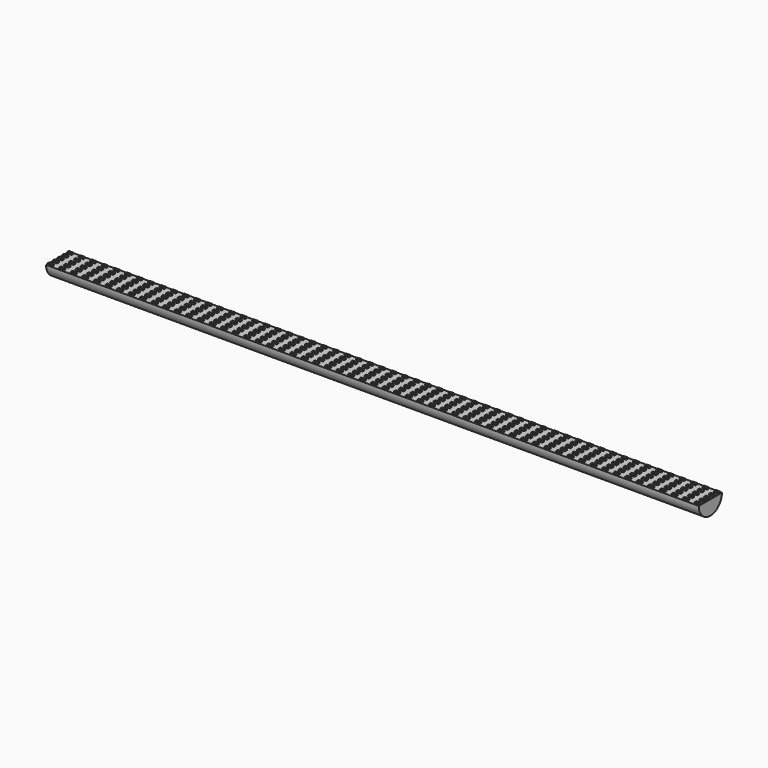
from build123d import *

# Parameters (mm, degrees)
F1_DEPTH = 282.5
F2_W     = 4
F2_H     = 2
F3_DEPTH = 1


with BuildPart() as f1:
    # F0 (on Right) → F1 (new body, symmetric)
    with BuildSketch(Plane.YZ):
        with BuildLine():
            Line((12.55, 0), (-12.55, 0))
            ThreePointArc((-12.55, 0), (0, -12.55), (12.55, 0))
        make_face()
    extrude(amount=F1_DEPTH, both=True)

    # F2 (on face) → F3 (join)
    with BuildSketch(Plane.XY):
        with Locations((-280, 10.55)):
            Rectangle(F2_W, F2_H)
        with Locations((-280, 5.275)):
            Rectangle(F2_W, F2_H)
        with Locations((-280, 0)):
            Rectangle(F2_W, F2_H)
        with Locations((-280, -5.275)):
            Rectangle(F2_W, F2_H)
        with Locations((-280, -10.55)):
            Rectangle(F2_W, F2_H)
        with Locations((-270, -10.55)):
            Rectangle(F2_W, F2_H)
        with Locations((-270, 0)):
            Rectangle(F2_W, F2_H)
        with Locations((-270, 5.275)):
            Rectangle(F2_W, F2_H)
        with Locations((-270, 10.55)):
            Rectangle(F2_W, F2_H)
        with Locations((-270, -5.275)):
            Rectangle(F2_W, F2_H)
        with Locations((-260, -10.55)):
            Rectangle(F2_W, F2_H)
        with Locations((-260, 0)):
            Rectangle(F2_W, F2_H)
        with Locations((-260, 5.275)):
            Rectangle(F2_W, F2_H)
        with Locations((-260, 10.55)):
            Rectangle(F2_W, F2_H)
        with Locations((-260, -5.275)):
            Rectangle(F2_W, F2_H)
        with Locations((-250, -10.55)):
            Rectangle(F2_W, F2_H)
        with Locations((-250, 0)):
            Rectangle(F2_W, F2_H)
        with Locations((-250, 5.275)):
            Rectangle(F2_W, F2_H)
        with Locations((-250, 10.55)):
            Rectangle(F2_W, F2_H)
        with Locations((-250, -5.275)):
            Rectangle(F2_W, F2_H)
        with Locations((-240, -10.55)):
            Rectangle(F2_W, F2_H)
        with Locations((-240, 0)):
            Rectangle(F2_W, F2_H)
        with Locations((-240, 5.275)):
            Rectangle(F2_W, F2_H)
        with Locations((-240, 10.55)):
            Rectangle(F2_W, F2_H)
        with Locations((-240, -5.275)):
            Rectangle(F2_W, F2_H)
        with Locations((-230, -10.55)):
            Rectangle(F2_W, F2_H)
        with Locations((-230, 0)):
            Rectangle(F2_W, F2_H)
        with Locations((-230, 5.275)):
            Rectangle(F2_W, F2_H)
        with Locations((-230, 10.55)):
            Rectangle(F2_W, F2_H)
        with Locations((-230, -5.275)):
            Rectangle(F2_W, F2_H)
        with Locations((-220, -10.55)):
            Rectangle(F2_W, F2_H)
        with Locations((-220, 0)):
            Rectangle(F2_W, F2_H)
        with Locations((-220, 5.275)):
            Rectangle(F2_W, F2_H)
        with Locations((-220, 10.55)):
            Rectangle(F2_W, F2_H)
        with Locations((-220, -5.275)):
            Rectangle(F2_W, F2_H)
        with Locations((-210, -10.55)):
            Rectangle(F2_W, F2_H)
        with Locations((-210, 0)):
            Rectangle(F2_W, F2_H)
        with Locations((-210, 5.275)):
            Rectangle(F2_W, F2_H)
        with Locations((-210, 10.55)):
            Rectangle(F2_W, F2_H)
        with Locations((-210, -5.275)):
            Rectangle(F2_W, F2_H)
        with Locations((-200, -10.55)):
            Rectangle(F2_W, F2_H)
        with Locations((-200, 0)):
            Rectangle(F2_W, F2_H)
        with Locations((-200, 5.275)):
            Rectangle(F2_W, F2_H)
        with Locations((-200, 10.55)):
            Rectangle(F2_W, F2_H)
        with Locations((-200, -5.275)):
            Rectangle(F2_W, F2_H)
        with Locations((-190, -10.55)):
            Rectangle(F2_W, F2_H)
        with Locations((-190, 0)):
            Rectangle(F2_W, F2_H)
        with Locations((-190, 5.275)):
            Rectangle(F2_W, F2_H)
        with Locations((-190, 10.55)):
            Rectangle(F2_W, F2_H)
        with Locations((-190, -5.275)):
            Rectangle(F2_W, F2_H)
        with Locations((-170, -10.55)):
            Rectangle(F2_W, F2_H)
        with Locations((-100, 10.55)):
            Rectangle(F2_W, F2_H)
        with Locations((-110, 0)):
            Rectangle(F2_W, F2_H)
        with Locations((-130, 10.55)):
            Rectangle(F2_W, F2_H)
        with Locations((-160, 10.55)):
            Rectangle(F2_W, F2_H)
        with Locations((-100, -10.55)):
            Rectangle(F2_W, F2_H)
        with Locations((-90, 5.275)):
            Rectangle(F2_W, F2_H)
        with Locations((-130, -10.55)):
            Rectangle(F2_W, F2_H)
        with Locations((-130, 0)):
            Rectangle(F2_W, F2_H)
        with Locations((-160, 0)):
            Rectangle(F2_W, F2_H)
        with Locations((-120, -10.55)):
            Rectangle(F2_W, F2_H)
        with Locations((-90, -10.55)):
            Rectangle(F2_W, F2_H)
        with Locations((-150, -10.55)):
            Rectangle(F2_W, F2_H)
        with Locations((-110, 10.55)):
            Rectangle(F2_W, F2_H)
        with Locations((-170, 5.275)):
            Rectangle(F2_W, F2_H)
        with Locations((-180, 10.55)):
            Rectangle(F2_W, F2_H)
        with Locations((-180, 5.275)):
            Rectangle(F2_W, F2_H)
        with Locations((-160, 5.275)):
            Rectangle(F2_W, F2_H)
        with Locations((-170, 10.55)):
            Rectangle(F2_W, F2_H)
        with Locations((-140, -5.275)):
            Rectangle(F2_W, F2_H)
        with Locations((-140, -10.55)):
            Rectangle(F2_W, F2_H)
        with Locations((-150, 0)):
            Rectangle(F2_W, F2_H)
        with Locations((-110, -5.275)):
            Rectangle(F2_W, F2_H)
        with Locations((-170, -5.275)):
            Rectangle(F2_W, F2_H)
        with Locations((-120, 5.275)):
            Rectangle(F2_W, F2_H)
        with Locations((-140, 0)):
            Rectangle(F2_W, F2_H)
        with Locations((-150, 5.275)):
            Rectangle(F2_W, F2_H)
        with Locations((-110, -10.55)):
            Rectangle(F2_W, F2_H)
        with Locations((-100, -5.275)):
            Rectangle(F2_W, F2_H)
        with Locations((-130, -5.275)):
            Rectangle(F2_W, F2_H)
        with Locations((-160, -5.275)):
            Rectangle(F2_W, F2_H)
        with Locations((-160, -10.55)):
            Rectangle(F2_W, F2_H)
        with Locations((-90, 10.55)):
            Rectangle(F2_W, F2_H)
        with Locations((-120, 10.55)):
            Rectangle(F2_W, F2_H)
        with Locations((-140, 5.275)):
            Rectangle(F2_W, F2_H)
        with Locations((-150, 10.55)):
            Rectangle(F2_W, F2_H)
        with Locations((-90, -5.275)):
            Rectangle(F2_W, F2_H)
        with Locations((-110, 5.275)):
            Rectangle(F2_W, F2_H)
        with Locations((-100, 0)):
            Rectangle(F2_W, F2_H)
        with Locations((-120, -5.275)):
            Rectangle(F2_W, F2_H)
        with Locations((-150, -5.275)):
            Rectangle(F2_W, F2_H)
        with Locations((-180, -5.275)):
            Rectangle(F2_W, F2_H)
        with Locations((-140, 10.55)):
            Rectangle(F2_W, F2_H)
        with Locations((-180, -10.55)):
            Rectangle(F2_W, F2_H)
        with Locations((-180, 0)):
            Rectangle(F2_W, F2_H)
        with Locations((-120, 0)):
            Rectangle(F2_W, F2_H)
        with Locations((-170, 0)):
            Rectangle(F2_W, F2_H)
        with Locations((-100, 5.275)):
            Rectangle(F2_W, F2_H)
        with Locations((-90, 0)):
            Rectangle(F2_W, F2_H)
        with Locations((-130, 5.275)):
            Rectangle(F2_W, F2_H)
        with Locations((-70, -10.55)):
            Rectangle(F2_W, F2_H)
        with Locations((0, 10.55)):
            Rectangle(F2_W, F2_H)
        with Locations((-10, 0)):
            Rectangle(F2_W, F2_H)
        with Locations((-30, 10.55)):
            Rectangle(F2_W, F2_H)
        with Locations((-60, 10.55)):
            Rectangle(F2_W, F2_H)
        with Locations((0, -10.55)):
            Rectangle(F2_W, F2_H)
        with Locations((10, 5.275)):
            Rectangle(F2_W, F2_H)
        with Locations((-30, -10.55)):
            Rectangle(F2_W, F2_H)
        with Locations((-30, 0)):
            Rectangle(F2_W, F2_H)
        with Locations((-60, 0)):
            Rectangle(F2_W, F2_H)
        with Locations((-20, -10.55)):
            Rectangle(F2_W, F2_H)
        with Locations((10, -10.55)):
            Rectangle(F2_W, F2_H)
        with Locations((-50, -10.55)):
            Rectangle(F2_W, F2_H)
        with Locations((-10, 10.55)):
            Rectangle(F2_W, F2_H)
        with Locations((-70, 5.275)):
            Rectangle(F2_W, F2_H)
        with Locations((-80, 10.55)):
            Rectangle(F2_W, F2_H)
        with Locations((-80, 5.275)):
            Rectangle(F2_W, F2_H)
        with Locations((-60, 5.275)):
            Rectangle(F2_W, F2_H)
        with Locations((-70, 10.55)):
            Rectangle(F2_W, F2_H)
        with Locations((-40, -5.275)):
            Rectangle(F2_W, F2_H)
        with Locations((-40, -10.55)):
            Rectangle(F2_W, F2_H)
        with Locations((-50, 0)):
            Rectangle(F2_W, F2_H)
        with Locations((-10, -5.275)):
            Rectangle(F2_W, F2_H)
        with Locations((-70, -5.275)):
            Rectangle(F2_W, F2_H)
        with Locations((-20, 5.275)):
            Rectangle(F2_W, F2_H)
        with Locations((-40, 0)):
            Rectangle(F2_W, F2_H)
        with Locations((-50, 5.275)):
            Rectangle(F2_W, F2_H)
        with Locations((-10, -10.55)):
            Rectangle(F2_W, F2_H)
        with Locations((0, -5.275)):
            Rectangle(F2_W, F2_H)
        with Locations((-30, -5.275)):
            Rectangle(F2_W, F2_H)
        with Locations((-60, -5.275)):
            Rectangle(F2_W, F2_H)
        with Locations((-60, -10.55)):
            Rectangle(F2_W, F2_H)
        with Locations((10, 10.55)):
            Rectangle(F2_W, F2_H)
        with Locations((-20, 10.55)):
            Rectangle(F2_W, F2_H)
        with Locations((-40, 5.275)):
            Rectangle(F2_W, F2_H)
        with Locations((-50, 10.55)):
            Rectangle(F2_W, F2_H)
        with Locations((10, -5.275)):
            Rectangle(F2_W, F2_H)
        with Locations((-10, 5.275)):
            Rectangle(F2_W, F2_H)
        Rectangle(F2_W, F2_H)
        with Locations((-20, -5.275)):
            Rectangle(F2_W, F2_H)
        with Locations((-50, -5.275)):
            Rectangle(F2_W, F2_H)
        with Locations((-80, -5.275)):
            Rectangle(F2_W, F2_H)
        with Locations((-40, 10.55)):
            Rectangle(F2_W, F2_H)
        with Locations((-80, -10.55)):
            Rectangle(F2_W, F2_H)
        with Locations((-80, 0)):
            Rectangle(F2_W, F2_H)
        with Locations((-20, 0)):
            Rectangle(F2_W, F2_H)
        with Locations((-70, 0)):
            Rectangle(F2_W, F2_H)
        with Locations((0, 5.275)):
            Rectangle(F2_W, F2_H)
        with Locations((10, 0)):
            Rectangle(F2_W, F2_H)
        with Locations((-30, 5.275)):
            Rectangle(F2_W, F2_H)
        with Locations((30, -10.55)):
            Rectangle(F2_W, F2_H)
        with Locations((100, 10.55)):
            Rectangle(F2_W, F2_H)
        with Locations((90, 0)):
            Rectangle(F2_W, F2_H)
        with Locations((70, 10.55)):
            Rectangle(F2_W, F2_H)
        with Locations((40, 10.55)):
            Rectangle(F2_W, F2_H)
        with Locations((100, -10.55)):
            Rectangle(F2_W, F2_H)
        with Locations((110, 5.275)):
            Rectangle(F2_W, F2_H)
        with Locations((70, -10.55)):
            Rectangle(F2_W, F2_H)
        with Locations((70, 0)):
            Rectangle(F2_W, F2_H)
        with Locations((40, 0)):
            Rectangle(F2_W, F2_H)
        with Locations((80, -10.55)):
            Rectangle(F2_W, F2_H)
        with Locations((110, -10.55)):
            Rectangle(F2_W, F2_H)
        with Locations((50, -10.55)):
            Rectangle(F2_W, F2_H)
        with Locations((90, 10.55)):
            Rectangle(F2_W, F2_H)
        with Locations((30, 5.275)):
            Rectangle(F2_W, F2_H)
        with Locations((20, 10.55)):
            Rectangle(F2_W, F2_H)
        with Locations((20, 5.275)):
            Rectangle(F2_W, F2_H)
        with Locations((40, 5.275)):
            Rectangle(F2_W, F2_H)
        with Locations((30, 10.55)):
            Rectangle(F2_W, F2_H)
        with Locations((60, -5.275)):
            Rectangle(F2_W, F2_H)
        with Locations((60, -10.55)):
            Rectangle(F2_W, F2_H)
        with Locations((50, 0)):
            Rectangle(F2_W, F2_H)
        with Locations((90, -5.275)):
            Rectangle(F2_W, F2_H)
        with Locations((30, -5.275)):
            Rectangle(F2_W, F2_H)
        with Locations((80, 5.275)):
            Rectangle(F2_W, F2_H)
        with Locations((60, 0)):
            Rectangle(F2_W, F2_H)
        with Locations((50, 5.275)):
            Rectangle(F2_W, F2_H)
        with Locations((90, -10.55)):
            Rectangle(F2_W, F2_H)
        with Locations((100, -5.275)):
            Rectangle(F2_W, F2_H)
        with Locations((70, -5.275)):
            Rectangle(F2_W, F2_H)
        with Locations((40, -5.275)):
            Rectangle(F2_W, F2_H)
        with Locations((40, -10.55)):
            Rectangle(F2_W, F2_H)
        with Locations((110, 10.55)):
            Rectangle(F2_W, F2_H)
        with Locations((80, 10.55)):
            Rectangle(F2_W, F2_H)
        with Locations((60, 5.275)):
            Rectangle(F2_W, F2_H)
        with Locations((50, 10.55)):
            Rectangle(F2_W, F2_H)
        with Locations((110, -5.275)):
            Rectangle(F2_W, F2_H)
        with Locations((90, 5.275)):
            Rectangle(F2_W, F2_H)
        with Locations((100, 0)):
            Rectangle(F2_W, F2_H)
        with Locations((80, -5.275)):
            Rectangle(F2_W, F2_H)
        with Locations((50, -5.275)):
            Rectangle(F2_W, F2_H)
        with Locations((20, -5.275)):
            Rectangle(F2_W, F2_H)
        with Locations((60, 10.55)):
            Rectangle(F2_W, F2_H)
        with Locations((20, -10.55)):
            Rectangle(F2_W, F2_H)
        with Locations((20, 0)):
            Rectangle(F2_W, F2_H)
        with Locations((80, 0)):
            Rectangle(F2_W, F2_H)
        with Locations((30, 0)):
            Rectangle(F2_W, F2_H)
        with Locations((100, 5.275)):
            Rectangle(F2_W, F2_H)
        with Locations((110, 0)):
            Rectangle(F2_W, F2_H)
        with Locations((70, 5.275)):
            Rectangle(F2_W, F2_H)
        with Locations((130, -10.55)):
            Rectangle(F2_W, F2_H)
        with Locations((200, 10.55)):
            Rectangle(F2_W, F2_H)
        with Locations((190, 0)):
            Rectangle(F2_W, F2_H)
        with Locations((170, 10.55)):
            Rectangle(F2_W, F2_H)
        with Locations((140, 10.55)):
            Rectangle(F2_W, F2_H)
        with Locations((200, -10.55)):
            Rectangle(F2_W, F2_H)
        with Locations((210, 5.275)):
            Rectangle(F2_W, F2_H)
        with Locations((170, -10.55)):
            Rectangle(F2_W, F2_H)
        with Locations((170, 0)):
            Rectangle(F2_W, F2_H)
        with Locations((140, 0)):
            Rectangle(F2_W, F2_H)
        with Locations((180, -10.55)):
            Rectangle(F2_W, F2_H)
        with Locations((210, -10.55)):
            Rectangle(F2_W, F2_H)
        with Locations((150, -10.55)):
            Rectangle(F2_W, F2_H)
        with Locations((190, 10.55)):
            Rectangle(F2_W, F2_H)
        with Locations((130, 5.275)):
            Rectangle(F2_W, F2_H)
        with Locations((120, 10.55)):
            Rectangle(F2_W, F2_H)
        with Locations((120, 5.275)):
            Rectangle(F2_W, F2_H)
        with Locations((140, 5.275)):
            Rectangle(F2_W, F2_H)
        with Locations((130, 10.55)):
            Rectangle(F2_W, F2_H)
        with Locations((160, -5.275)):
            Rectangle(F2_W, F2_H)
        with Locations((160, -10.55)):
            Rectangle(F2_W, F2_H)
        with Locations((150, 0)):
            Rectangle(F2_W, F2_H)
        with Locations((190, -5.275)):
            Rectangle(F2_W, F2_H)
        with Locations((130, -5.275)):
            Rectangle(F2_W, F2_H)
        with Locations((180, 5.275)):
            Rectangle(F2_W, F2_H)
        with Locations((160, 0)):
            Rectangle(F2_W, F2_H)
        with Locations((150, 5.275)):
            Rectangle(F2_W, F2_H)
        with Locations((190, -10.55)):
            Rectangle(F2_W, F2_H)
        with Locations((200, -5.275)):
            Rectangle(F2_W, F2_H)
        with Locations((170, -5.275)):
            Rectangle(F2_W, F2_H)
        with Locations((140, -5.275)):
            Rectangle(F2_W, F2_H)
        with Locations((140, -10.55)):
            Rectangle(F2_W, F2_H)
        with Locations((210, 10.55)):
            Rectangle(F2_W, F2_H)
        with Locations((180, 10.55)):
            Rectangle(F2_W, F2_H)
        with Locations((160, 5.275)):
            Rectangle(F2_W, F2_H)
        with Locations((150, 10.55)):
            Rectangle(F2_W, F2_H)
        with Locations((210, -5.275)):
            Rectangle(F2_W, F2_H)
        with Locations((190, 5.275)):
            Rectangle(F2_W, F2_H)
        with Locations((200, 0)):
            Rectangle(F2_W, F2_H)
        with Locations((180, -5.275)):
            Rectangle(F2_W, F2_H)
        with Locations((150, -5.275)):
            Rectangle(F2_W, F2_H)
        with Locations((120, -5.275)):
            Rectangle(F2_W, F2_H)
        with Locations((160, 10.55)):
            Rectangle(F2_W, F2_H)
        with Locations((120, -10.55)):
            Rectangle(F2_W, F2_H)
        with Locations((120, 0)):
            Rectangle(F2_W, F2_H)
        with Locations((180, 0)):
            Rectangle(F2_W, F2_H)
        with Locations((130, 0)):
            Rectangle(F2_W, F2_H)
        with Locations((200, 5.275)):
            Rectangle(F2_W, F2_H)
        with Locations((210, 0)):
            Rectangle(F2_W, F2_H)
        with Locations((170, 5.275)):
            Rectangle(F2_W, F2_H)
        with Locations((230, -10.55)):
            Rectangle(F2_W, F2_H)
        with Locations((270, 10.55)):
            Rectangle(F2_W, F2_H)
        with Locations((240, 10.55)):
            Rectangle(F2_W, F2_H)
        with Locations((270, -10.55)):
            Rectangle(F2_W, F2_H)
        with Locations((270, 0)):
            Rectangle(F2_W, F2_H)
        with Locations((240, 0)):
            Rectangle(F2_W, F2_H)
        with Locations((280, -10.55)):
            Rectangle(F2_W, F2_H)
        with Locations((250, -10.55)):
            Rectangle(F2_W, F2_H)
        with Locations((230, 5.275)):
            Rectangle(F2_W, F2_H)
        with Locations((220, 10.55)):
            Rectangle(F2_W, F2_H)
        with Locations((220, 5.275)):
            Rectangle(F2_W, F2_H)
        with Locations((240, 5.275)):
            Rectangle(F2_W, F2_H)
        with Locations((230, 10.55)):
            Rectangle(F2_W, F2_H)
        with Locations((260, -5.275)):
            Rectangle(F2_W, F2_H)
        with Locations((260, -10.55)):
            Rectangle(F2_W, F2_H)
        with Locations((250, 0)):
            Rectangle(F2_W, F2_H)
        with Locations((230, -5.275)):
            Rectangle(F2_W, F2_H)
        with Locations((280, 5.275)):
            Rectangle(F2_W, F2_H)
        with Locations((260, 0)):
            Rectangle(F2_W, F2_H)
        with Locations((250, 5.275)):
            Rectangle(F2_W, F2_H)
        with Locations((270, -5.275)):
            Rectangle(F2_W, F2_H)
        with Locations((240, -5.275)):
            Rectangle(F2_W, F2_H)
        with Locations((240, -10.55)):
            Rectangle(F2_W, F2_H)
        with Locations((280, 10.55)):
            Rectangle(F2_W, F2_H)
        with Locations((260, 5.275)):
            Rectangle(F2_W, F2_H)
        with Locations((250, 10.55)):
            Rectangle(F2_W, F2_H)
        with Locations((280, -5.275)):
            Rectangle(F2_W, F2_H)
        with Locations((250, -5.275)):
            Rectangle(F2_W, F2_H)
        with Locations((220, -5.275)):
            Rectangle(F2_W, F2_H)
        with Locations((260, 10.55)):
            Rectangle(F2_W, F2_H)
        with Locations((220, -10.55)):
            Rectangle(F2_W, F2_H)
        with Locations((220, 0)):
            Rectangle(F2_W, F2_H)
        with Locations((280, 0)):
            Rectangle(F2_W, F2_H)
        with Locations((230, 0)):
            Rectangle(F2_W, F2_H)
        with Locations((270, 5.275)):
            Rectangle(F2_W, F2_H)
    extrude(amount=F3_DEPTH)


with BuildPart() as f4_1:
    # F4: copy of F1
    add(f1.part)


solid = Compound([f1.part, f4_1.part])
